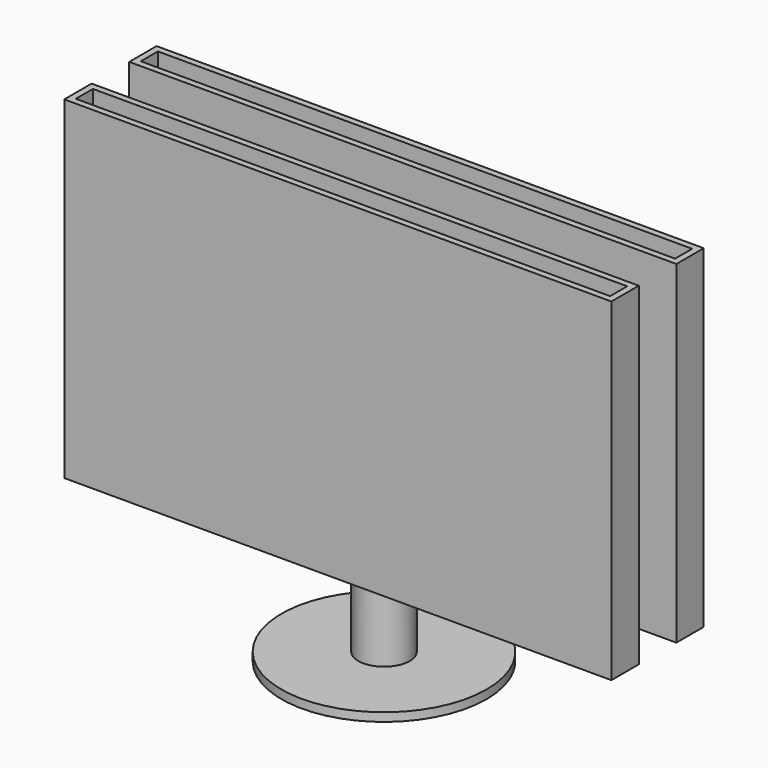
from build123d import *

# Parameters (mm, degrees)
F0_R      = 304.8
F1_DEPTH  = 25.4
F2_R      = 76.2
F2_R_2    = 63.5
F3_DEPTH  = 1000
F3_FACE_R = 63.5
F4_DEPTH  = 25.4
F5_W      = 152.12731
F5_H      = 29.139879
F5_W_2    = 161.554912
F5_H_2    = 35.139259
F6_DEPTH  = 762
F7_W      = 1625.6
F7_H      = 990.6
F8_DEPTH  = 101.6
F9_T      = -19.05


with BuildPart() as f1:
    # F0 (on Top) → F1 (new body)
    with BuildSketch(Plane.XY):
        Circle(F0_R)
    extrude(amount=F1_DEPTH)

    # F2 (on face) → F3 (join)
    with BuildSketch(Plane.XY.offset(25.4)):
        Circle(F2_R)
        Circle(F2_R_2, mode=Mode.SUBTRACT)
    extrude(amount=F3_DEPTH)

    # F3_face (on face) → F4 (cut)
    with BuildSketch(Plane.XY.offset(25.4)):
        Circle(F3_FACE_R)
    extrude(amount=-F4_DEPTH, mode=Mode.SUBTRACT)

    # F5 (on face) → F6 (cut)
    with BuildSketch(Plane.XY.offset(1025.4)):
        with Locations((0, -84.419939)):
            Rectangle(F5_W, F5_H)
        with Locations((0, 87.419629)):
            Rectangle(F5_W_2, F5_H_2)
    extrude(amount=-F6_DEPTH, mode=Mode.SUBTRACT)


with BuildPart() as f8:
    # F7 (on face) → F8 (new body)
    with BuildSketch(Plane(origin=(0, 69.85, 0), x_dir=(-1, 0, 0), z_dir=(0, 1, 0))):
        with Locations((0, 779.866667)):
            Rectangle(F7_W, F7_H)
    extrude(amount=F8_DEPTH)

    # F9
    f9_openings = [f8.faces().sort_by_distance(p)[0] for p in [
        (0, 120.65, 1275.166667),
    ]]
    offset(amount=F9_T, openings=f9_openings)


with BuildPart() as f10_1:
    # F10: instance of F8
    add(f8.part.mirror(Plane.XZ))


solid = Compound([f1.part, f8.part, f10_1.part])
